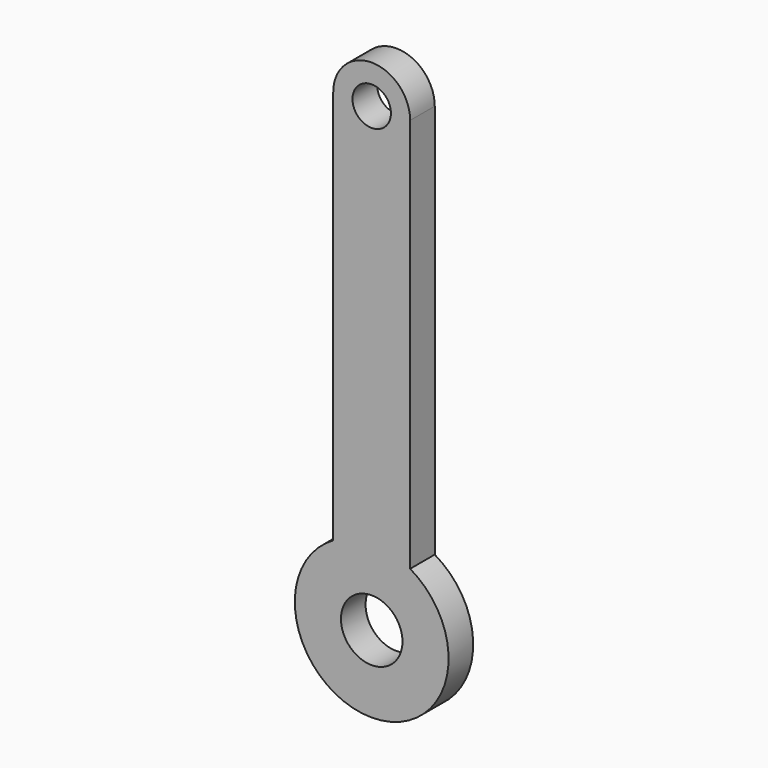
from build123d import *

# Parameters (mm, degrees)
F0_R     = 4
F0_R_2   = 2.5
F1_DEPTH = 4


with BuildPart() as f1:
    # F0 (on Front) → F1 (new body)
    with BuildSketch(Plane.XZ):
        with BuildLine():
            Line((-5, 60), (-5, 8.660254))
            ThreePointArc((-5, 8.660254), (0, -10), (5, 8.660254))
            Line((5, 8.660254), (5, 60))
            ThreePointArc((5, 60), (0, 65), (-5, 60))
        make_face()
        Circle(F0_R, mode=Mode.SUBTRACT)
        with Locations((0, 60)):
            Circle(F0_R_2, mode=Mode.SUBTRACT)
    extrude(amount=F1_DEPTH)


solid = f1.part
